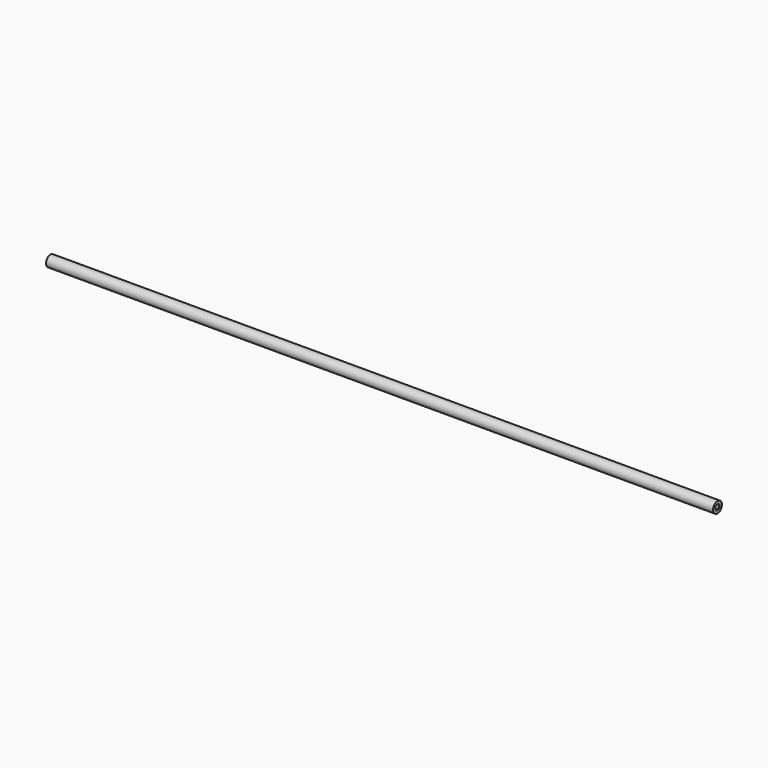
from build123d import *

# Parameters (mm, degrees)
F0_R           = 7.9375
F1_DEPTH       = 479.425
F3_D           = 6.35
F3_DEPTH       = 25.4
F3_CSINK_D     = 7.62
F3_CSINK_ANGLE = 90
F3_TIP         = 1.9077324654
F5_D           = 6.35
F5_DEPTH       = 25.4
F5_CSINK_D     = 7.62
F5_CSINK_ANGLE = 90
F5_TIP         = 1.9077324654


with BuildPart() as f1:
    # F0 (on Right) → F1 (new body, symmetric)
    with BuildSketch(Plane.YZ):
        Circle(F0_R)
    extrude(amount=F1_DEPTH, both=True)

    # F3
    with Locations(Plane(origin=(-479.425, 0, 0), x_dir=(0, -1, 0), z_dir=(-1, 0, 0))):
        with Locations((0, 0)):
            CounterSinkHole(F3_D / 2, F3_CSINK_D / 2, depth=F3_DEPTH, counter_sink_angle=F3_CSINK_ANGLE)
            with Locations((0, 0, -(F3_DEPTH + F3_TIP / 2))):  # 118° drill point
                Cone(0, F3_D / 2, F3_TIP, mode=Mode.SUBTRACT)

    # F5
    with Locations(Plane.YZ.offset(479.425)):
        with Locations((0, 0)):
            CounterSinkHole(F5_D / 2, F5_CSINK_D / 2, depth=F5_DEPTH, counter_sink_angle=F5_CSINK_ANGLE)
            with Locations((0, 0, -(F5_DEPTH + F5_TIP / 2))):  # 118° drill point
                Cone(0, F5_D / 2, F5_TIP, mode=Mode.SUBTRACT)


solid = f1.part
